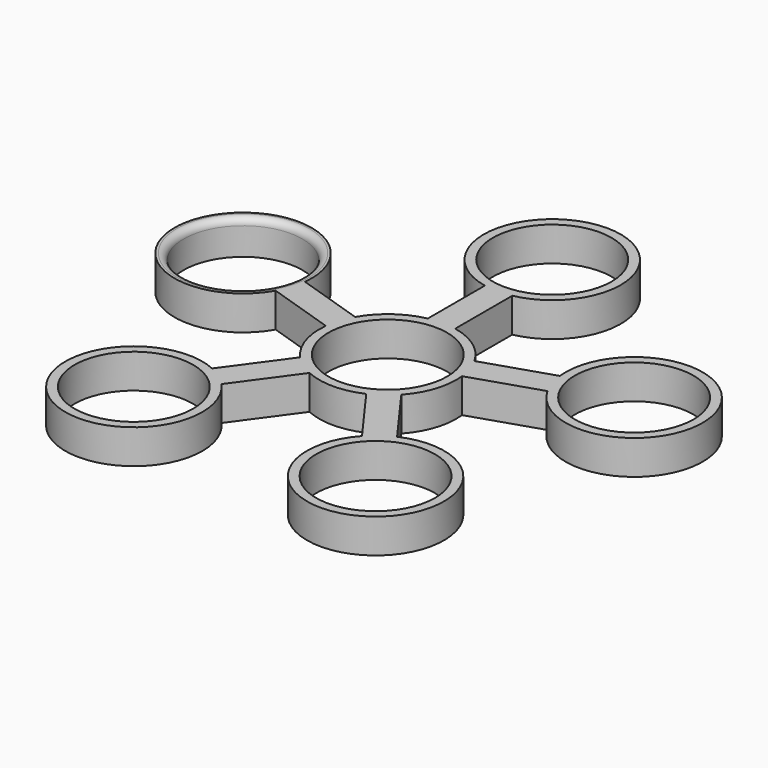
from build123d import *

# Parameters (mm, degrees)
F0_R     = 10.9982
F1_DEPTH = 6.35
F2_R     = 1.27


with BuildPart() as f1:
    # F0 (on Top) → F1 (new body)
    with BuildSketch(Plane.XY):
        with BuildLine():
            Line((-2.54, 25.656592), (-2.54, 12.443408))
            ThreePointArc((-2.54, 12.443408), (-7.464873, 10.274516), (-11.049481, 6.260908))
            Line((-11.049481, 6.260908), (-23.615966, 10.344007))
            ThreePointArc((-23.615966, 10.344007), (-48.313671, 15.698063), (-25.185772, 5.512639))
            Line((-25.185772, 5.512639), (-12.619287, 1.429541))
            ThreePointArc((-12.619287, 1.429541), (-12.078418, -3.924516), (-9.368955, -8.573954))
            Line((-9.368955, -8.573954), (-17.13547, -19.263644))
            ThreePointArc((-17.13547, -19.263644), (-29.859491, -41.098063), (-13.025663, -22.249594))
            Line((-13.025663, -22.249594), (-5.259148, -11.559903))
            ThreePointArc((-5.259148, -11.559903), (0, -12.7), (5.259148, -11.559903))
            Line((5.259148, -11.559903), (13.025663, -22.249594))
            ThreePointArc((13.025663, -22.249594), (29.859491, -41.098063), (17.13547, -19.263644))
            Line((17.13547, -19.263644), (9.368955, -8.573954))
            ThreePointArc((9.368955, -8.573954), (12.078418, -3.924516), (12.619287, 1.429541))
            Line((12.619287, 1.429541), (25.185772, 5.512639))
            ThreePointArc((25.185772, 5.512639), (48.313671, 15.698063), (23.615966, 10.344007))
            Line((23.615966, 10.344007), (11.049481, 6.260908))
            ThreePointArc((11.049481, 6.260908), (7.464873, 10.274516), (2.54, 12.443408))
            Line((2.54, 12.443408), (2.54, 25.656592))
            ThreePointArc((2.54, 25.656592), (0, 50.8), (-2.54, 25.656592))
        make_face()
        with Locations((-22.394618, -30.823547)):
            Circle(F0_R, mode=Mode.SUBTRACT)
        Circle(F0_R, mode=Mode.SUBTRACT)
        with Locations((22.394618, -30.823547)):
            Circle(F0_R, mode=Mode.SUBTRACT)
        with Locations((-36.235253, 11.773547)):
            Circle(F0_R, mode=Mode.SUBTRACT)
        with Locations((0, 38.1)):
            Circle(F0_R, mode=Mode.SUBTRACT)
        with Locations((36.235253, 11.773547)):
            Circle(F0_R, mode=Mode.SUBTRACT)
    extrude(amount=F1_DEPTH)

    # F2
    f2_edges = [f1.edges().sort_by_distance(p)[0] for p in [
        (-47.233453, 11.773547, 6.35),
    ]]
    fillet(f2_edges, radius=F2_R)


solid = f1.part
